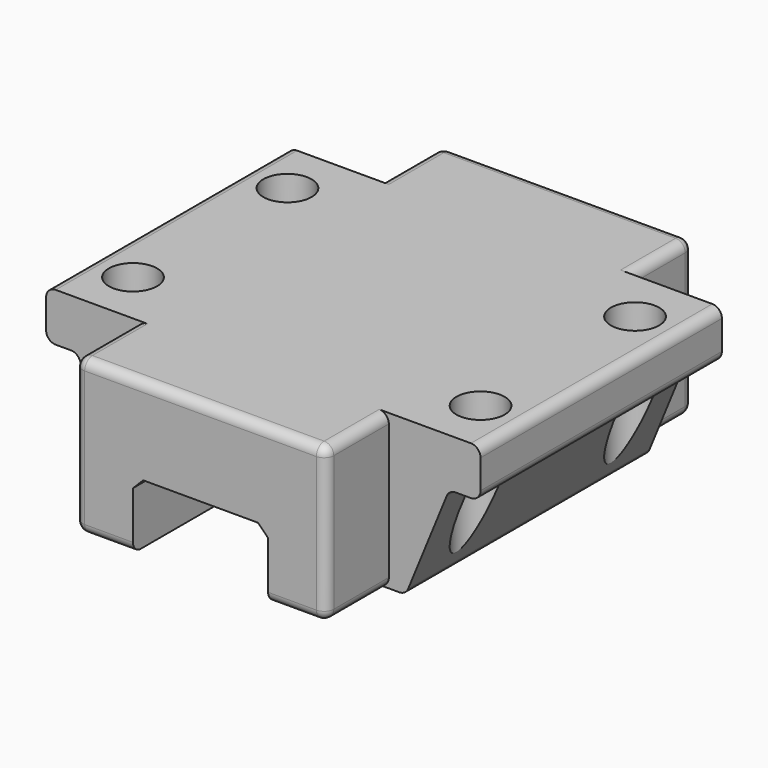
from build123d import *

# Parameters (mm, degrees)
F0_W          = 90
F0_H          = 32
F1_DEPTH      = 65.2
F3_DEPTH      = 25
F4_W          = 90
F4_H          = 65.2
F5_DEPTH      = 32.001
F6_DEPTH      = 62.5
F8_DEPTH      = 16.25
F8_DEPTH_BACK = 78.75
F9_R          = 2
F11_DEPTH     = 78.751
F12_R         = 5
F13_DEPTH     = 32.001


with BuildPart() as f1:
    # F0 (on Front) → F1 (new body)
    with BuildSketch(Plane.XZ):
        with Locations((-2.4301670492, -5.0586230417)):
            Rectangle(F0_W, F0_H)
    extrude(amount=F1_DEPTH)

    # F2 (on face) → F3 (join)
    with BuildSketch(Plane.XZ.offset(65.2)):
        with BuildLine():
            Line((40.5698329508, 10.9413769583), (-45.4301670492, 10.9413769583))
            ThreePointArc((-45.4301670492, 10.9413769583), (-46.8443806115, 10.3555905207), (-47.4301670492, 8.9413769583))
            Line((-47.4301670492, 8.9413769583), (-47.4301670492, 2.9413769583))
            ThreePointArc((-47.4301670492, 2.9413769583), (-46.8443806115, 1.5271633959), (-45.4301670492, 0.9413769583))
            Line((-45.4301670492, 0.9413769583), (-42.2728696535, 0.9413769583))
            ThreePointArc((-42.2728696535, 0.9413769583), (-41.1580897163, 0.6018785968), (-40.4217757411, -0.3013573503))
            Line((-40.4217757411, -0.3013573503), (-32.4385583572, -19.8158887331))
            ThreePointArc((-32.4385583572, -19.8158887331), (-31.7022443821, -20.7191246802), (-30.5874644448, -21.0586230417))
            Line((-30.5874644448, -21.0586230417), (25.7271303465, -21.0586230417))
            ThreePointArc((25.7271303465, -21.0586230417), (26.8419102837, -20.7191246802), (27.5782242589, -19.8158887331))
            Line((27.5782242589, -19.8158887331), (35.5614416428, -0.3013573503))
            ThreePointArc((35.5614416428, -0.3013573503), (36.2977556179, 0.6018785968), (37.4125355552, 0.9413769583))
            Line((37.4125355552, 0.9413769583), (40.5698329508, 0.9413769583))
            ThreePointArc((40.5698329508, 0.9413769583), (41.9840465132, 1.5271633959), (42.5698329508, 2.9413769583))
            Line((42.5698329508, 2.9413769583), (42.5698329508, 8.9413769583))
            ThreePointArc((42.5698329508, 8.9413769583), (41.9840465132, 10.3555905207), (40.5698329508, 10.9413769583))
        make_face()
    extrude(amount=F3_DEPTH)

    # F4 (on face) → F5 (cut, through all)
    with BuildSketch(Plane.XY.offset(10.9413769583)):
        with Locations((-2.4301670492, -32.6)):
            Rectangle(F4_W, F4_H)
    extrude(amount=-F5_DEPTH, mode=Mode.SUBTRACT)

    # F6 (add): a face of the model
    f6_faces = [f1.faces().sort_by_distance(p)[0] for p in [
        (-2.4301670492, -90.2, -3.7537517767),
    ]]
    extrude(f6_faces, amount=-F6_DEPTH)

    # F7 (on face) → F8 (join, two sides)
    with BuildSketch(Plane.XZ.offset(90.2)) as f8_sk:
        with BuildLine():
            Line((21.5698329508, 10.9413769583), (-26.4301670492, 10.9413769583))
            ThreePointArc((-26.4301670492, 10.9413769583), (-27.8443806115, 10.3555905207), (-28.4301670492, 8.9413769583))
            Line((-28.4301670492, 8.9413769583), (-28.4301670492, -19.0586230417))
            ThreePointArc((-28.4301670492, -19.0586230417), (-27.8443806115, -20.4728366041), (-26.4301670492, -21.0586230417))
            Line((-26.4301670492, -21.0586230417), (-16.4301670492, -21.0586230417))
            Line((-16.4301670492, -21.0586230417), (-16.4301670492, -9.1799433853))
            Line((-16.4301670492, -9.1799433853), (-14.3088467056, -7.0586230417))
            Line((-14.3088467056, -7.0586230417), (9.4485126073, -7.0586230417))
            Line((9.4485126073, -7.0586230417), (11.5698329508, -9.1799433853))
            Line((11.5698329508, -9.1799433853), (11.5698329508, -21.0586230417))
            Line((11.5698329508, -21.0586230417), (21.5698329508, -21.0586230417))
            ThreePointArc((21.5698329508, -21.0586230417), (22.9840465132, -20.4728366041), (23.5698329508, -19.0586230417))
            Line((23.5698329508, -19.0586230417), (23.5698329508, 8.9413769583))
            ThreePointArc((23.5698329508, 8.9413769583), (22.9840465132, 10.3555905207), (21.5698329508, 10.9413769583))
        make_face()
    extrude(amount=F8_DEPTH)
    extrude(f8_sk.sketch, amount=-F8_DEPTH_BACK)

    # F9
    f9_edges = [f1.edges().sort_by_distance(p)[0] for p in [
        (-28.430167, -106.45, -5.058623),
        (-2.430167, -11.45, 10.941377),
    ]]
    fillet(f9_edges, radius=F9_R)

    # F10 (on face) → F11 (cut, through all)
    with BuildSketch(Plane.XZ.offset(90.2)):
        Polygon((-16.4301670492, -9.1799433853), (-16.4301670492, -21.0586230417), (11.5698329508, -21.0586230417), (11.5698329508, -9.1799433853), (9.4485126073, -7.0586230417), (-14.3088467056, -7.0586230417), align=None)
    extrude(amount=-F11_DEPTH, mode=Mode.SUBTRACT)

    # F12 (on face) → F13 (cut, through all)
    with BuildSketch(Plane.XY.offset(10.9413769583)):
        with Locations((-38.4301670492, -38.95)):
            Circle(F12_R)
        with Locations((-38.4301670492, -78.95)):
            Circle(F12_R)
        with Locations((33.5698329508, -78.95)):
            Circle(F12_R)
        with Locations((33.5698329508, -38.95)):
            Circle(F12_R)
    extrude(amount=-F13_DEPTH, mode=Mode.SUBTRACT)


solid = f1.part
